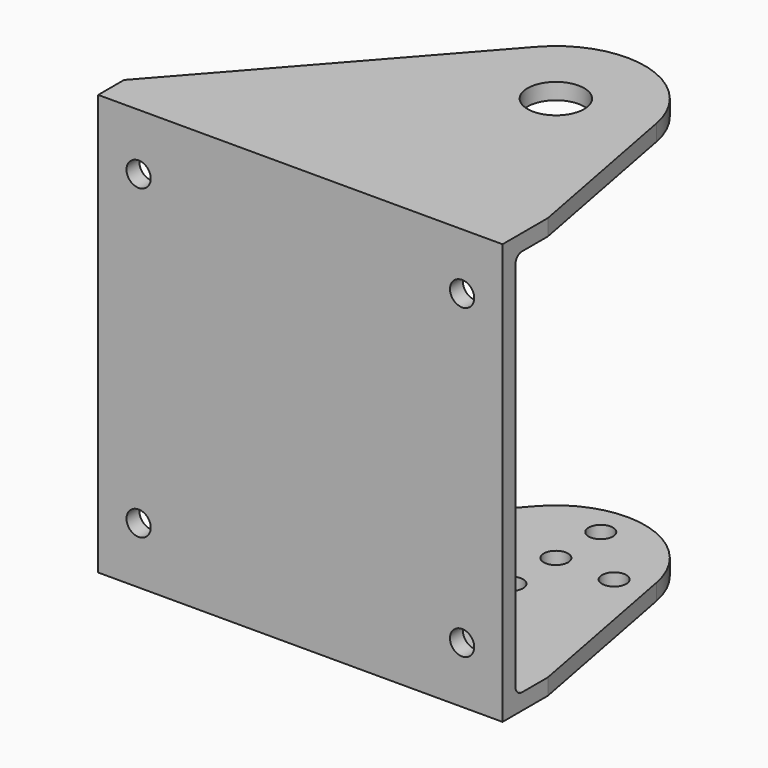
from build123d import *

# Parameters (mm, degrees)
SKETCH_W     = 50
SKETCH_H     = 48
SKETCH_R     = 1.5
PAD_DEPTH    = 2
SKETCH003_R  = 1.5
PAD001_DEPTH = 2
SKETCH004_R  = 3.5
PAD002_DEPTH = 2
FILLET_R     = 1
FILLET001_R  = 1


with BuildPart() as part:
    # Sketch → Pad (new body)
    with BuildSketch(Plane.XZ):
        Rectangle(SKETCH_W, SKETCH_H)
        with Locations((-20, 19)):
            Circle(SKETCH_R, mode=Mode.SUBTRACT)
        with Locations((20, 19)):
            Circle(SKETCH_R, mode=Mode.SUBTRACT)
        with Locations((-20, -19)):
            Circle(SKETCH_R, mode=Mode.SUBTRACT)
        with Locations((20, -19)):
            Circle(SKETCH_R, mode=Mode.SUBTRACT)
    extrude(amount=PAD_DEPTH)

    # Sketch003 (on Face3 of Pad) → Pad001 (join)
    with BuildSketch(Plane(origin=(0, 0, -24), x_dir=(1, 0, 0), z_dir=(0, 0, -1))):
        with BuildLine():
            Line((-25, 0), (-25, 2))
            Line((-25, 2), (25, 2))
            Line((25, 2), (25, 0))
            Line((25, 0), (25, -5))
            Line((25, -5), (20.80638, -27.054785))
            ThreePointArc((1.756653, -32.283353), (12.911489, -35.607697), (20.80638, -27.054785))
            Line((-25, -2), (1.756653, -32.283353))
            Line((-25, 0), (-25, -2))
        make_face()
        with Locations((10, -31.934549)):
            Circle(SKETCH003_R, mode=Mode.SUBTRACT)
        with Locations((17.205, -25)):
            Circle(SKETCH003_R, mode=Mode.SUBTRACT)
        with Locations((10, -25)):
            Circle(SKETCH003_R, mode=Mode.SUBTRACT)
        with Locations((2.795, -25)):
            Circle(SKETCH003_R, mode=Mode.SUBTRACT)
        with Locations((10, -18.065451)):
            Circle(SKETCH003_R, mode=Mode.SUBTRACT)
    extrude(amount=PAD001_DEPTH)

    # Sketch004 (on Face1 of Pad) → Pad002 (join)
    with BuildSketch(Plane(origin=(0, 0, 24), x_dir=(-1, 0, 0), z_dir=(0, 0, 1))):
        with BuildLine():
            Line((-25, 2), (25, 2))
            Line((25, 2), (25, 0))
            Line((25, 0), (25, -2))
            Line((25, -2), (-1.756653, -32.283353))
            ThreePointArc((-20.80638, -27.054785), (-12.911489, -35.607697), (-1.756653, -32.283353))
            Line((-25, -5), (-20.80638, -27.054785))
            Line((-25, 0), (-25, -5))
            Line((-25, 0), (-25, 2))
        make_face()
        with Locations((-10, -25)):
            Circle(SKETCH004_R, mode=Mode.SUBTRACT)
    extrude(amount=PAD002_DEPTH)

    # Fillet
    fillet_edges = [part.edges().sort_by_distance(p)[0] for p in [
        (0, 0, -24),
    ]]
    fillet(fillet_edges, radius=FILLET_R)

    # Fillet001
    fillet001_edges = [part.edges().sort_by_distance(p)[0] for p in [
        (0, 0, 24),
    ]]
    fillet(fillet001_edges, radius=FILLET001_R)


solid = part.part
